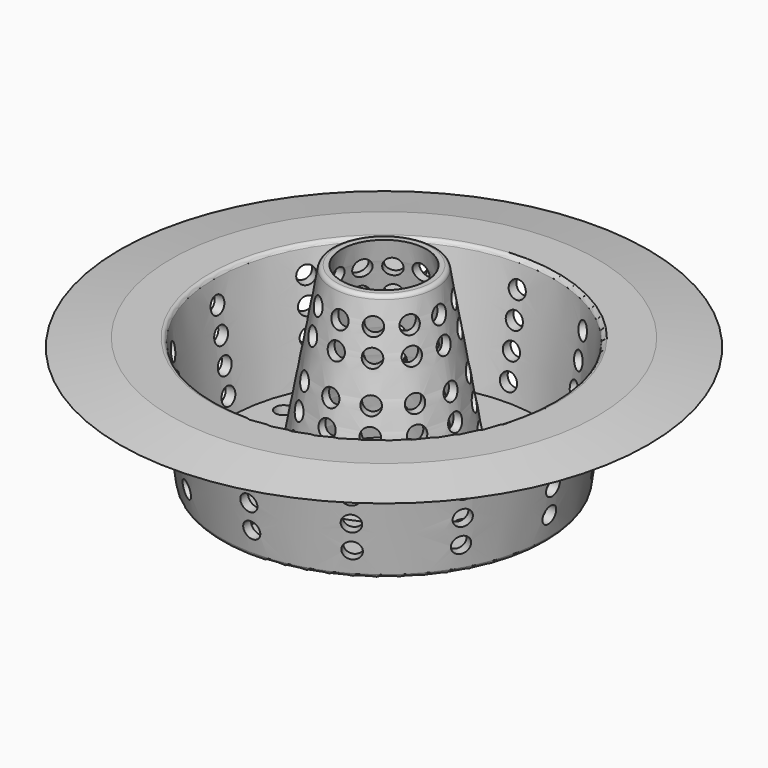
from build123d import *

# Parameters (mm, degrees)
SKETCH001_R           = 2
POCKET_DEPTH          = 424.089387
POLARPATTERN_COUNT    = 12
SKETCH002_R           = 2
POCKET001_DEPTH       = 392.089387
POLARPATTERN001_COUNT = 12
FILLET_R              = 1
FILLET001_R           = 1
FILLET002_R           = 1


with BuildPart() as part:
    # Sketch → Revolution (revolve)
    with BuildSketch(Plane.XZ):
        Polygon((50, 0), (40, 0), (36, -28), (19.644444, -28), (12, 15), (10, 15), (18, -30), (38, -30), (42, -2), (62, -2), align=None)
    revolve(axis=Axis((0, 0, 0), (0, 0, 1)))

    # Sketch001 → Pocket (cut, through all)
    with BuildSketch(Plane.XZ):
        with Locations((0, -6)):
            Circle(SKETCH001_R)
        with Locations((0, -12)):
            Circle(SKETCH001_R)
        with Locations((0, -18)):
            Circle(SKETCH001_R)
        with Locations((0, -24)):
            Circle(SKETCH001_R)
        with Locations((0, 3)):
            Circle(SKETCH001_R)
        with Locations((0, 9)):
            Circle(SKETCH001_R)
    pocket = extrude(amount=-POCKET_DEPTH, mode=Mode.SUBTRACT)

    # PolarPattern: Pocket ×12 about axis
    polarpattern_axis = Axis((0, 0, 0), (0, 0, 1))
    for i in range(1, POLARPATTERN_COUNT):
        add(pocket.rotate(polarpattern_axis, i * 360 / POLARPATTERN_COUNT), mode=Mode.SUBTRACT)

    # Sketch002 → Pocket001 (cut, through all)
    with BuildSketch(Plane.XY):
        with Locations((6.470476, -24.148146)):
            Circle(SKETCH002_R)
        with Locations((8.02339, -29.943701)):
            Circle(SKETCH002_R)
    pocket001 = extrude(amount=-POCKET001_DEPTH, mode=Mode.SUBTRACT)

    # PolarPattern001: Pocket001 ×12 about axis
    polarpattern001_axis = Axis((0, 0, 0), (0, 0, 1))
    for i in range(1, POLARPATTERN001_COUNT):
        add(pocket001.rotate(polarpattern001_axis, i * 360 / POLARPATTERN001_COUNT), mode=Mode.SUBTRACT)

    # Fillet
    fillet_edges = [part.edges().sort_by_distance(p)[0] for p in [
        (-38, 0, -30),
    ]]
    fillet(fillet_edges, radius=FILLET_R)

    # Fillet001
    fillet001_edges = [part.edges().sort_by_distance(p)[0] for p in [
        (-12, 0, 15),
    ]]
    fillet(fillet001_edges, radius=FILLET001_R)

    # Fillet002
    fillet002_edges = [part.edges().sort_by_distance(p)[0] for p in [
        (-40, 0, 0),
    ]]
    fillet(fillet002_edges, radius=FILLET002_R)


solid = part.part
